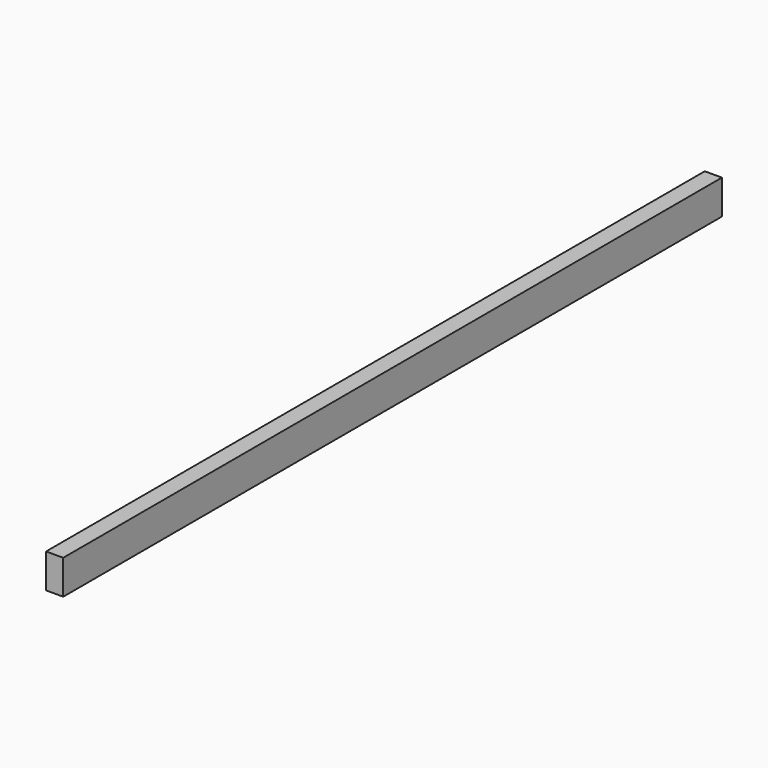
from build123d import *

# Parameters (mm, degrees)
F0_W     = 50.8
F0_H     = 101.6
F1_DEPTH = 2438.4


with BuildPart() as f1:
    # F0 (on Front) → F1 (new body)
    with BuildSketch(Plane.XZ):
        with Locations((-42.3892193198, 72.6464434147)):
            Rectangle(F0_W, F0_H)
    extrude(amount=F1_DEPTH)


with BuildPart() as f2_1:
    # F2: copy of F1
    add(f1.part)


solid = Compound([f1.part, f2_1.part])
